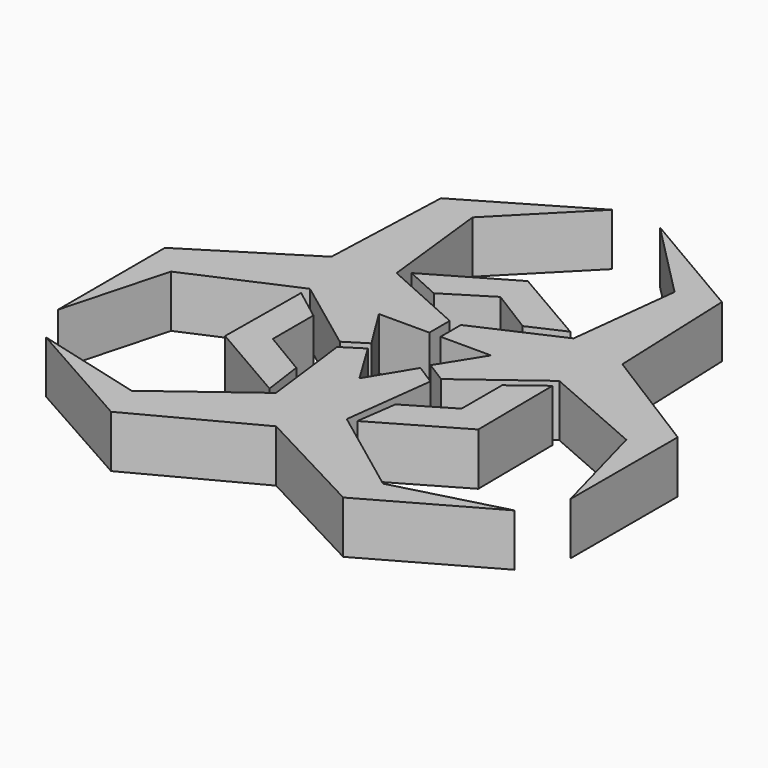
from build123d import *

# Parameters (mm, degrees)
F1_DEPTH = 15.494


with BuildPart() as f1:
    # F0 (on Top) → F1 (new body)
    with BuildSketch(Plane.XY):
        Polygon((-29.958175, 52.899882), (-7.097477, 76.07384), (-41.666746, 55.831384), (-43.144558, 17.075129), (-76.040231, -3.52007), (-76.004528, -43.290157), (-67.52602, -11.947304), (-36.971629, 1.412981), (-15.014293, -14.96789), (-8.76195, -11.053447), (-16.633129, 1.51879), (-1.653594, 1.532238), (-1.66037, 9.080095), (-26.236575, 20.117668), align=None)
        Polygon((7.097477, 76.07384), (29.958175, 52.899882), (26.236575, 20.117668), (1.66037, 9.080095), (1.653594, 1.532238), (16.633129, 1.51879), (8.76195, -11.053447), (15.014293, -14.96789), (36.971629, 1.412981), (67.52602, -11.947304), (76.004528, -43.290157), (76.040231, -3.52007), (43.144558, 17.075129), (41.666746, 55.831384), align=None)
        Polygon((-23.543846, 22.273848), (-13.188462, 17.584616), (0, 25.79077), (0, 35.950769), align=None)
        Polygon((0, 35.950769), (0, 25.79077), (13.188462, 17.584616), (23.543846, 22.273848), align=None)
        Polygon((0, -57.338573), (0, -26.467802), (-7.79874, -13.59831), (-13.839913, -17.432131), (-10.494146, -44.280797), (-37.27138, -64.325184), (-69.477215, -55.781674), (-34.420509, -75.517543), align=None)
        Polygon((7.79874, -13.59831), (0, -26.467802), (0, -57.338573), (34.420509, -75.517543), (69.477215, -55.781674), (37.27138, -64.325184), (10.494146, -44.280797), (13.839913, -17.432131), align=None)
        Polygon((-27.990609, -8.536145), (-37.27138, -1.502299), (-37.543017, -29.335979), (-13.029799, -43.509498), (-14.704455, -31.493839), (-27.990609, -23.580762), align=None)
        Polygon((37.27138, -1.502299), (27.990609, -8.536145), (27.990609, -23.580762), (14.704455, -31.493839), (13.029799, -43.509498), (37.543017, -29.335979), align=None)
    extrude(amount=F1_DEPTH)


solid = f1.part
